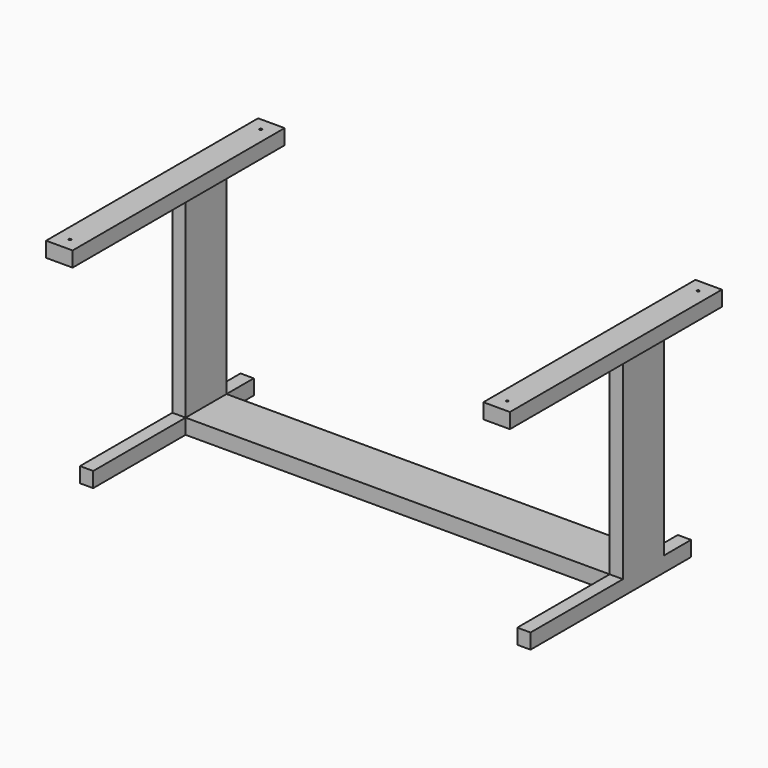
from build123d import *

# Parameters (mm, degrees)
PAD_DEPTH    = 40
SKETCH001_W  = 35
SKETCH001_H  = 135
PAD001_DEPTH = 555
SKETCH002_W  = 70
SKETCH002_H  = 40
PAD002_DEPTH = 395
SKETCH003_W  = 70
SKETCH003_H  = 40
PAD003_DEPTH = 305
SKETCH004_R  = 3.125
POCKET_DEPTH = 595.001


with BuildPart() as part:
    # Sketch → Pad (new body)
    with BuildSketch(Plane.XY):
        Polygon((-560, 67.5), (560, 67.5), (560, 157.5), (595, 157.5), (595, -372.5), (560, -372.5), (560, -67.5), (-560, -67.5), (-560, -372.5), (-595, -372.5), (-595, 157.5), (-560, 157.5), align=None)
    extrude(amount=PAD_DEPTH)

    # Sketch001 (on Face14 of Pad) → Pad001 (join)
    with BuildSketch(Plane.XY.offset(40)):
        with Locations((-577.5, 0)):
            Rectangle(SKETCH001_W, SKETCH001_H)
        with Locations((577.5, 0)):
            Rectangle(SKETCH001_W, SKETCH001_H)
    extrude(amount=PAD001_DEPTH)

    # Sketch002 (on Face27 of Pad001) → Pad002 (join)
    with BuildSketch(Plane.XZ.offset(67.5)):
        with Locations((-577.5, 575)):
            Rectangle(SKETCH002_W, SKETCH002_H)
        with Locations((577.5, 575)):
            Rectangle(SKETCH002_W, SKETCH002_H)
    extrude(amount=PAD002_DEPTH)

    # Sketch003 (on Face32 of Pad002) → Pad003 (join)
    with BuildSketch(Plane(origin=(0, -67.5, 0), x_dir=(-1, 0, 0), z_dir=(0, 1, 0))):
        with Locations((577.5, 575)):
            Rectangle(SKETCH003_W, SKETCH003_H)
        with Locations((-577.5, 575)):
            Rectangle(SKETCH003_W, SKETCH003_H)
    extrude(amount=PAD003_DEPTH)

    # Sketch004 (on Face47 of Pad003) → Pocket (cut, through all)
    with BuildSketch(Plane.XY.offset(595)):
        with Locations((-577.5, -427.5)):
            Circle(SKETCH004_R)
        with Locations((577.5, -427.5)):
            Circle(SKETCH004_R)
        with Locations((-577.5, 202.5)):
            Circle(SKETCH004_R)
        with Locations((577.5, 202.5)):
            Circle(SKETCH004_R)
    extrude(amount=-POCKET_DEPTH, mode=Mode.SUBTRACT)


solid = part.part
